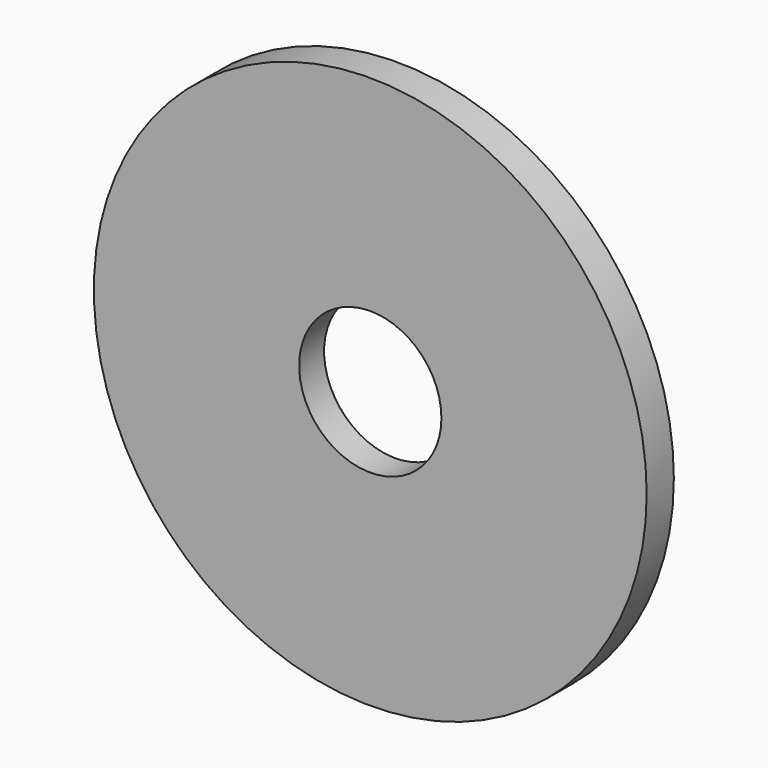
from build123d import *

# Parameters (mm, degrees)
F0_R           = 34.975
F1_DEPTH       = 4.3
F3_D           = 18
F3_CSINK_D     = 18.707
F3_CSINK_ANGLE = 90


with BuildPart() as f1:
    # F0 (on Front) → F1 (new body)
    with BuildSketch(Plane.XZ):
        Circle(F0_R)
    extrude(amount=F1_DEPTH)

    # F3 (through all)
    with Locations(Plane(origin=(0, 0, 0), x_dir=(-1, 0, 0), z_dir=(0, 1, 0))):
        with Locations((0, 0)):
            CounterSinkHole(F3_D / 2, F3_CSINK_D / 2, counter_sink_angle=F3_CSINK_ANGLE)


solid = f1.part
